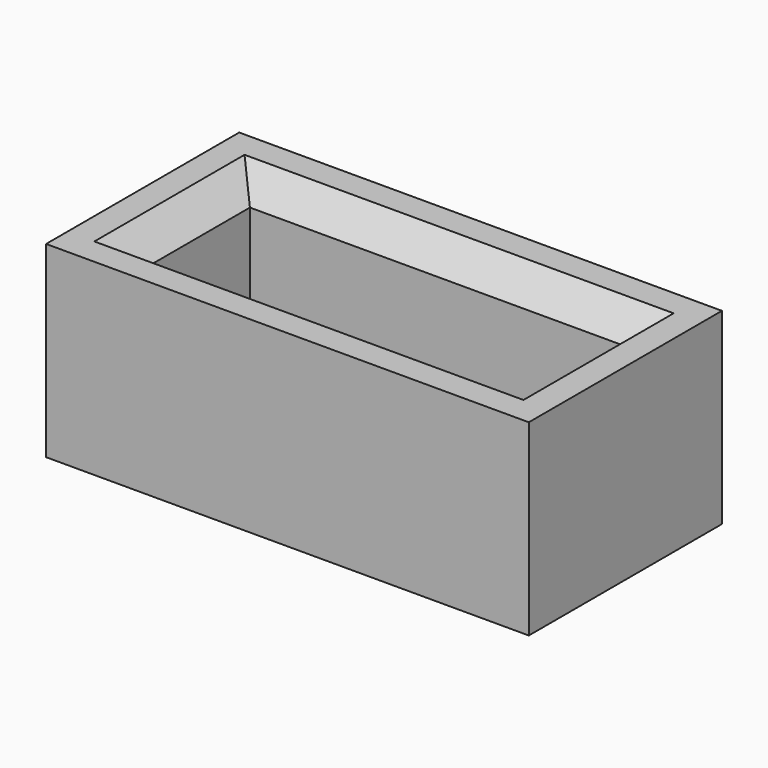
from build123d import *

# Parameters (mm, degrees)
F0_W     = 36
F0_H     = 18
F0_W_2   = 28
F0_H_2   = 10
F1_DEPTH = 14
F2_SIZE  = 2


with BuildPart() as f1:
    # F0 (on Top) → F1 (new body)
    with BuildSketch(Plane.XY):
        Rectangle(F0_W, F0_H)
        Rectangle(F0_W_2, F0_H_2, mode=Mode.SUBTRACT)
    extrude(amount=F1_DEPTH)

    # F2
    f2_edges = [f1.edges().sort_by_distance(p)[0] for p in [
        (0, 5, 14),
        (0, 5, 0),
        (0, -5, 0),
        (14, 0, 14),
        (0, -5, 14),
        (-14, 0, 0),
        (14, 0, 0),
        (-14, 0, 14),
    ]]
    chamfer(f2_edges, length=F2_SIZE)


solid = f1.part
